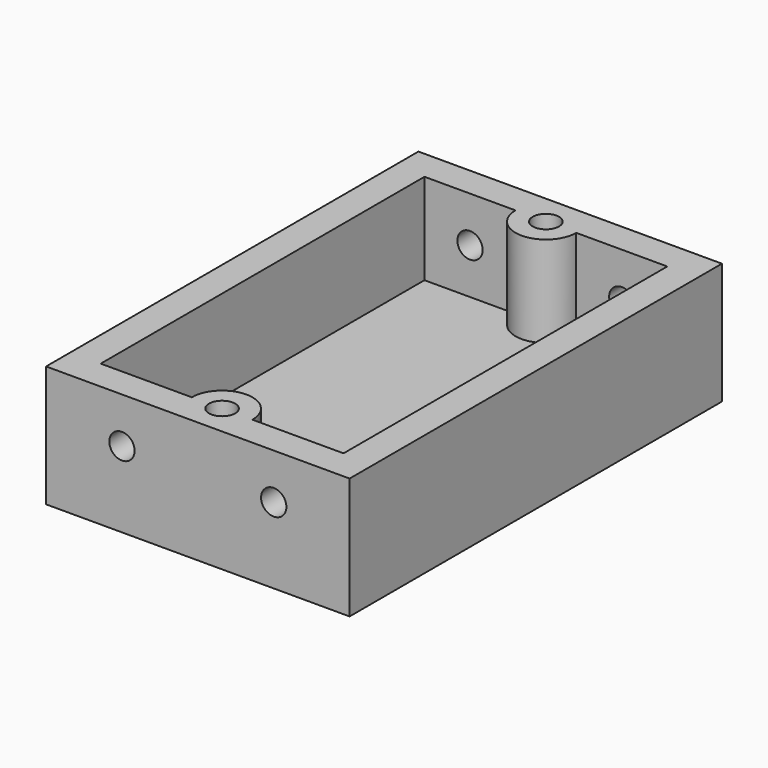
from build123d import *

# Parameters (mm, degrees)
F0_W      = 30
F0_H      = 15
F1_DEPTH  = 46
F2_R      = 1.25
F3_DEPTH  = 46
F4_W      = 24
F4_H      = 40
F5_DEPTH  = 12
F6_R      = 3
F7_DEPTH  = 12
F8_W      = 30
F8_H      = 3
F9_DEPTH  = 46.001
F10_R     = 1.3
F11_DEPTH = 10


with BuildPart() as f1:
    # F0 (on Front) → F1 (new body)
    with BuildSketch(Plane.XZ):
        Rectangle(F0_W, F0_H)
    extrude(amount=F1_DEPTH)

    # F2 (on face) → F3 (cut, through all)
    with BuildSketch(Plane.XZ.offset(46)):
        with Locations((-7.5, 0)):
            Circle(F2_R)
        with Locations((7.5, 0)):
            Circle(F2_R)
    extrude(amount=-F3_DEPTH, mode=Mode.SUBTRACT)

    # F4 (on face) → F5 (cut)
    with BuildSketch(Plane.XY.offset(7.5)):
        with Locations((0, -23)):
            Rectangle(F4_W, F4_H)
    extrude(amount=-F5_DEPTH, mode=Mode.SUBTRACT)

    # F6 (on face) → F7 (join)
    with BuildSketch(Plane.XY.offset(-4.5)):
        with Locations((0, -3)):
            Circle(F6_R)
        with Locations((0, -43)):
            Circle(F6_R)
    extrude(amount=F7_DEPTH)

    # F8 (on face) → F9 (cut, through all)
    with BuildSketch(Plane(origin=(0, 0, 0), x_dir=(-1, 0, 0), z_dir=(0, 1, 0))):
        with Locations((0, 6)):
            Rectangle(F8_W, F8_H)
    extrude(amount=-F9_DEPTH, mode=Mode.SUBTRACT)

    # F10 (on face) → F11 (cut)
    with BuildSketch(Plane.XY.offset(4.5)):
        with Locations((0, -3)):
            Circle(F10_R)
        with Locations((0, -43)):
            Circle(F10_R)
    extrude(amount=-F11_DEPTH, mode=Mode.SUBTRACT)


solid = f1.part
